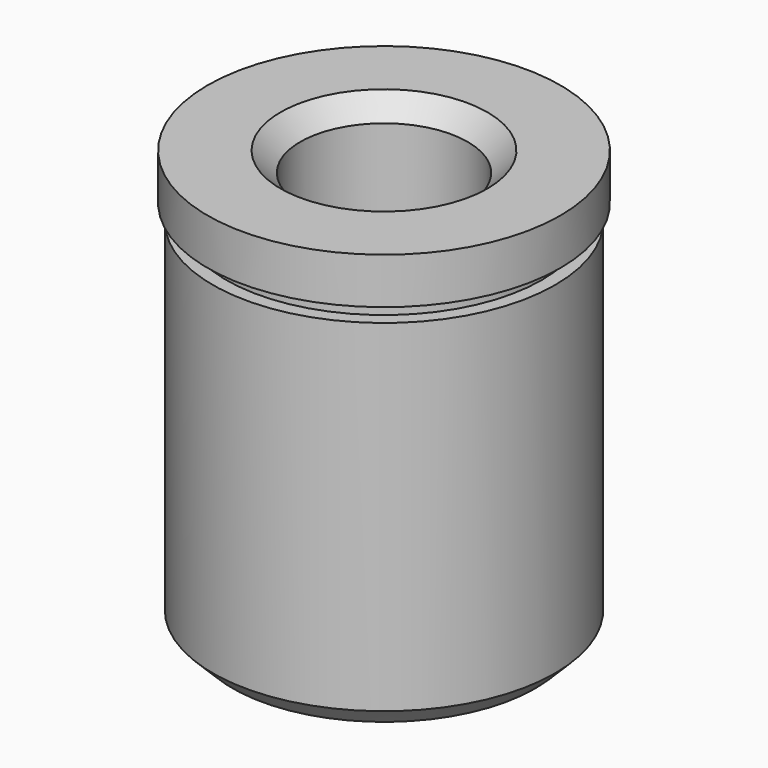
from build123d import *

# Parameters (mm, degrees)
F0_R     = 11.12
F0_R_2   = 5.44
F1_DEPTH = 23.48
F3_R     = 10.25
F3_R_2   = 5.44
F4_DEPTH = 1.08
F6_R     = 11.46
F6_R_2   = 5.44
F7_DEPTH = 3
F8_SIZE  = 1.28
F9_SIZE  = 1.28
F10_SIZE = 1.28


with BuildPart() as f1:
    # F0 (on Top) → F1 (new body)
    with BuildSketch(Plane.XY):
        Circle(F0_R)
        Circle(F0_R_2, mode=Mode.SUBTRACT)
    extrude(amount=F1_DEPTH)

    # F3 (on offset) → F4 (join)
    with BuildSketch(Plane.XY.offset(23.48)):
        Circle(F3_R)
        Circle(F3_R_2, mode=Mode.SUBTRACT)
    extrude(amount=F4_DEPTH)

    # F6 (on offset) → F7 (join)
    with BuildSketch(Plane.XY.offset(24.56)):
        Circle(F6_R)
        Circle(F6_R_2, mode=Mode.SUBTRACT)
    extrude(amount=F7_DEPTH)

    # F8
    f8_edges = [f1.edges().sort_by_distance(p)[0] for p in [
        (-11.12, 0, 0),
    ]]
    chamfer(f8_edges, length=F8_SIZE)

    # F9
    f9_edges = [f1.edges().sort_by_distance(p)[0] for p in [
        (-5.44, 0, 0),
    ]]
    chamfer(f9_edges, length=F9_SIZE)

    # F10
    f10_edges = [f1.edges().sort_by_distance(p)[0] for p in [
        (-5.44, 0, 27.56),
    ]]
    chamfer(f10_edges, length=F10_SIZE)


solid = f1.part
